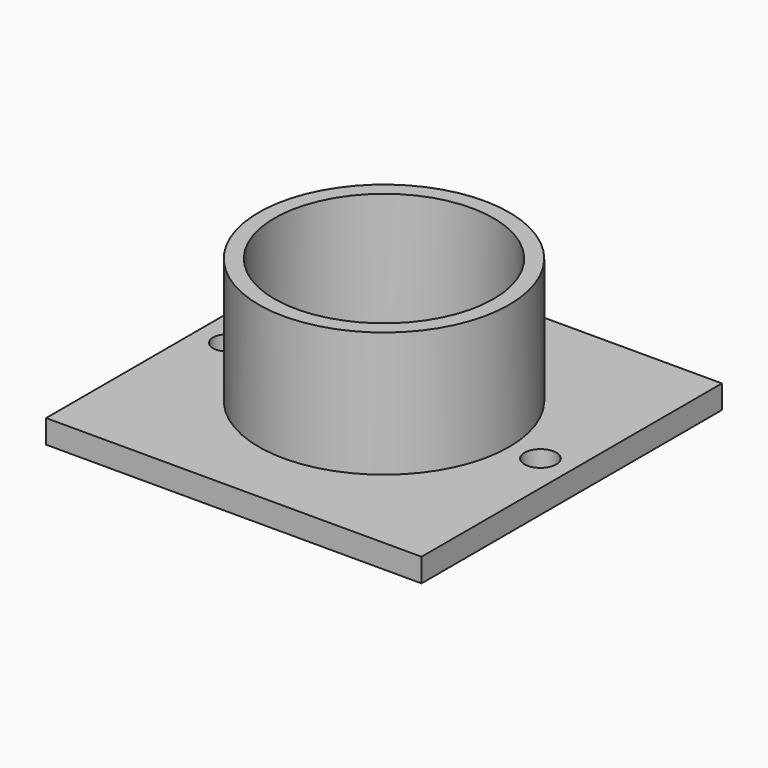
from build123d import *

# Parameters (mm, degrees)
F0_W     = 152.4
F0_H     = 152.4
F1_DEPTH = 9.525
F2_R     = 50.8
F2_R_2   = 44.45
F3_DEPTH = 50.8
F4_R     = 7.14375
F5_DEPTH = 25.4
F6_R     = 6.458156
F6_R_2   = 5.921704
F7_DEPTH = 25.4


with BuildPart() as f1:
    # F0 (on Top) → F1 (new body)
    with BuildSketch(Plane.XY):
        Rectangle(F0_W, F0_H)
    extrude(amount=F1_DEPTH)

    # F2 (on face) → F3 (join)
    with BuildSketch(Plane.XY.offset(9.525)):
        Circle(F2_R)
        Circle(F2_R_2, mode=Mode.SUBTRACT)
    extrude(amount=F3_DEPTH)

    # F4 (on face) → F5 (cut)
    with BuildSketch(Plane.XY.offset(9.525)):
        Circle(F4_R)
    extrude(amount=-F5_DEPTH, mode=Mode.SUBTRACT)

    # F6 (on face) → F7 (cut)
    with BuildSketch(Plane.XY.offset(9.525)):
        with Locations((63.5, 0)):
            Circle(F6_R)
        with Locations((-63.5, 0)):
            Circle(F6_R_2)
    extrude(amount=-F7_DEPTH, mode=Mode.SUBTRACT)


solid = f1.part
